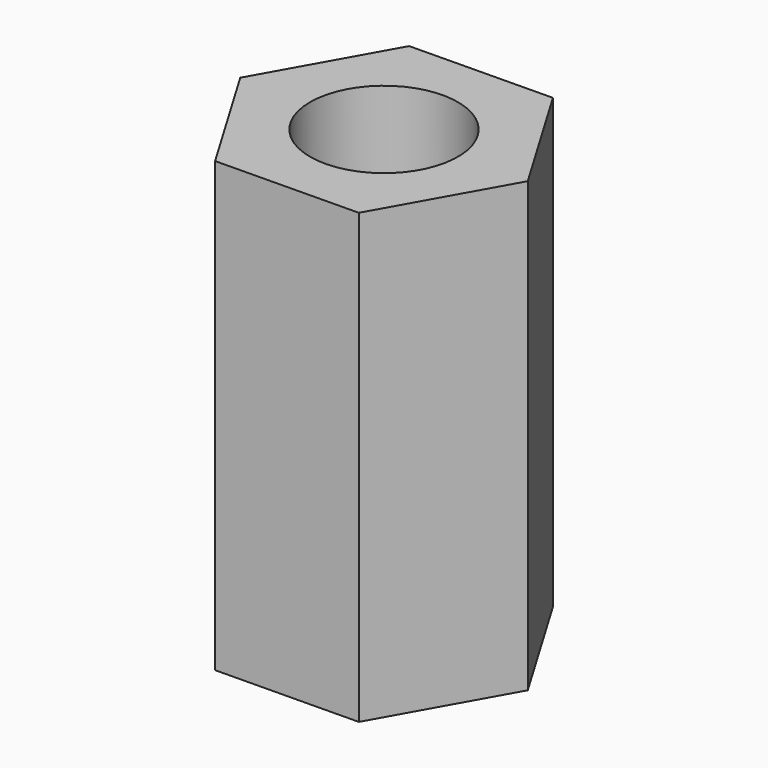
from build123d import *

# Parameters (mm, degrees)
F1_DEPTH = 40
F2_D     = 13.2


with BuildPart() as f1:
    # F0 (on Top) → F1 (new body)
    with BuildSketch(Plane.XY):
        Polygon((-6.4894835528, 10.9187882364), (-12.7006897677, -0.1606634959), (-6.2112062149, -11.0794517324), (6.4894835528, -10.9187882364), (12.7006897677, 0.1606634959), (6.2112062149, 11.0794517324), align=None)
    extrude(amount=F1_DEPTH)

    # F2 (through all)
    with Locations(Plane(origin=(0, 0, 0), x_dir=(1, 0, 0), z_dir=(0, 0, -1))):
        with Locations((0, 0)):
            Hole(F2_D / 2)


solid = f1.part
